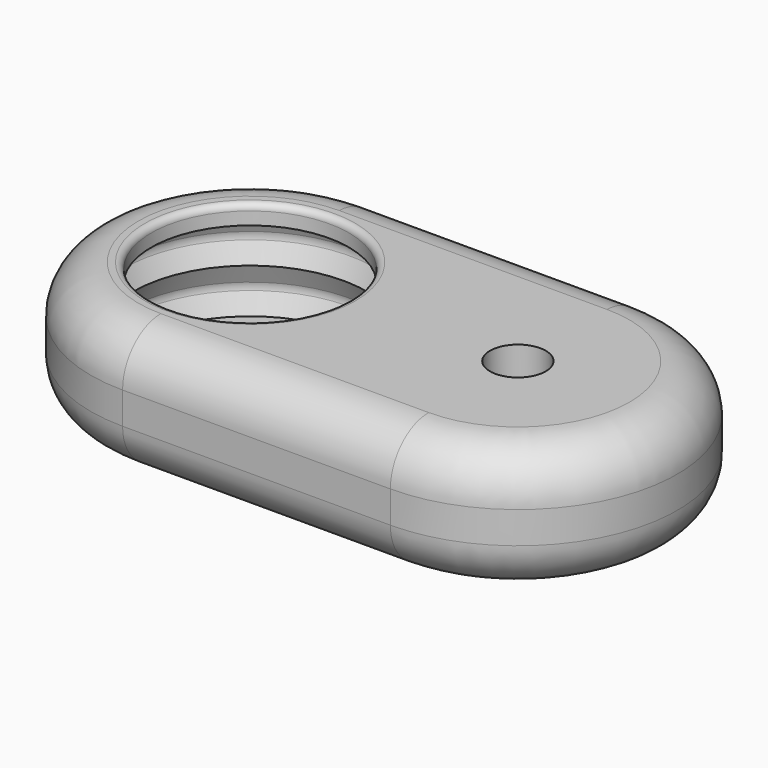
from build123d import *

# Parameters (mm, degrees)
F0_R           = 31
F0_R_2         = 8.75
F2_DEPTH       = 40
F4_D           = 17.5
F4_DEPTH       = 50
F4_CBORE_D     = 30
F4_CBORE_DEPTH = 20
F6_R           = 3
F8_R           = 15
F9_R           = 2


with BuildPart() as f2:
    # F0 (on Top) → F2 (new body)
    with BuildSketch(Plane.XY):
        with BuildLine():
            Line((84, 50), (0, 50))
            ThreePointArc((0, 50), (-50, 0), (0, -50))
            Line((0, -50), (84, -50))
            ThreePointArc((84, -50), (134, 0), (84, 50))
        make_face()
        Circle(F0_R, mode=Mode.SUBTRACT)
        with Locations((84, 0)):
            Circle(F0_R_2, mode=Mode.SUBTRACT)
    extrude(amount=-F2_DEPTH)

    # F4
    with Locations(Plane(origin=(0, 0, -40), x_dir=(1, 0, 0), z_dir=(0, 0, -1))):
        with Locations((84, 0)):
            CounterBoreHole(F4_D / 2, F4_CBORE_D / 2, F4_CBORE_DEPTH, depth=F4_DEPTH)


with BuildPart() as f5:
    # F1 (on Front) → F5 (revolve)
    with BuildSketch(Plane.XZ):
        Polygon((0, 0), (-31, 0), (-31, -6), (-36.600505, -6), (-39.5, -13), (-36.600505, -20), (-39.5, -27), (-36.58464, -33.999979), (-31, -33.999979), (-31, -40), (0, -40), align=None)
    revolve(axis=Axis((0, 0, -20), (0, 0, 1)))

    # F6
    f6_edges = [f5.edges().sort_by_distance(p)[0] for p in [
        (39.5, 0, -27),
        (39.5, 0, -13),
    ]]
    fillet(f6_edges, radius=F6_R)


with BuildPart() as f2_1:
    add(f2.part)

    # F7: cut F5
    add(f5.part, mode=Mode.SUBTRACT)

    # F8
    f8_edges = [f2_1.edges().sort_by_distance(p)[0] for p in [
        (42, -50, 0),
        (42, -50, -40),
    ]]
    fillet(f8_edges, radius=F8_R)

    # F9
    f9_edges = [f2_1.edges().sort_by_distance(p)[0] for p in [
        (-31, 0, 0),
    ]]
    fillet(f9_edges, radius=F9_R)


solid = f2_1.part
